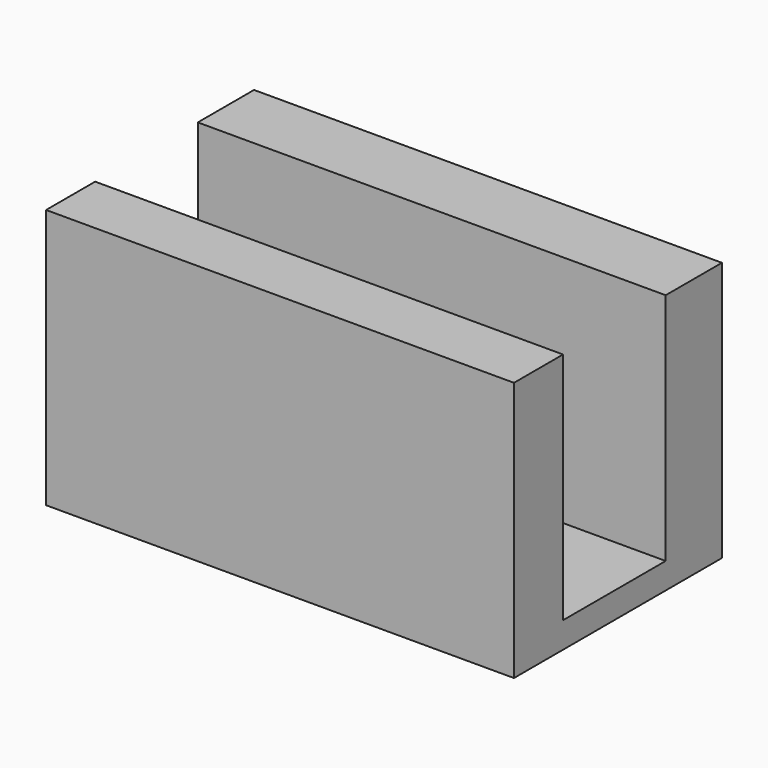
from build123d import *

# Parameters (mm, degrees)
F0_W     = 228.6
F0_H     = 62.69101
F1_DEPTH = 12.7
F0_H_2   = 34.342856
F0_H_3   = 29.966134
F2_DEPTH = 127


with BuildPart() as f1:
    # F0 (on Top) → F1 (new body)
    with BuildSketch(Plane.XY):
        with Locations((0, -2.188361)):
            Rectangle(F0_W, F0_H)
    extrude(amount=F1_DEPTH)

    # F0 (on Top) → F2 (join)
    with BuildSketch(Plane.XY):
        with Locations((0, 46.328572)):
            Rectangle(F0_W, F0_H_2)
        with Locations((0, -48.516933)):
            Rectangle(F0_W, F0_H_3)
    extrude(amount=F2_DEPTH)


solid = f1.part
